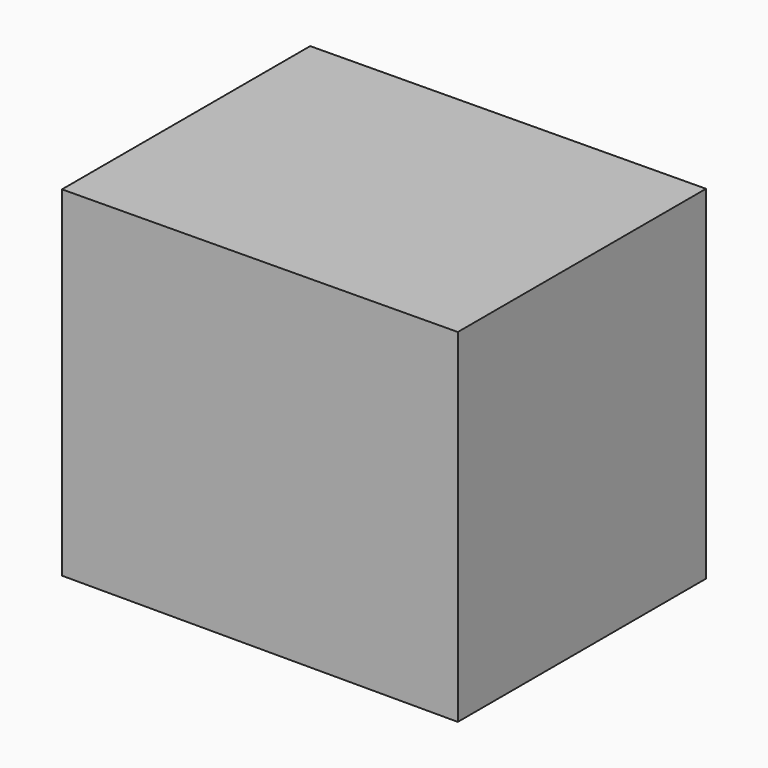
from build123d import *

# Parameters (mm, degrees)
F0_R     = 8.567616
F1_DEPTH = 25.4
F3_DEPTH = 50.8


with BuildPart() as f1:
    # F0 (on Front) → F1 (new body)
    with BuildSketch(Plane.XZ):
        Circle(F0_R)
    extrude(amount=F1_DEPTH)

    # F2 (on Front) → F3 (join)
    with BuildSketch(Plane.XZ):
        Polygon((32.915507, 26.585603), (-31.902723, 26.073975), (-31.902723, -29.623957), (32.915507, -29.623957), align=None)
    extrude(amount=F3_DEPTH)


solid = f1.part
